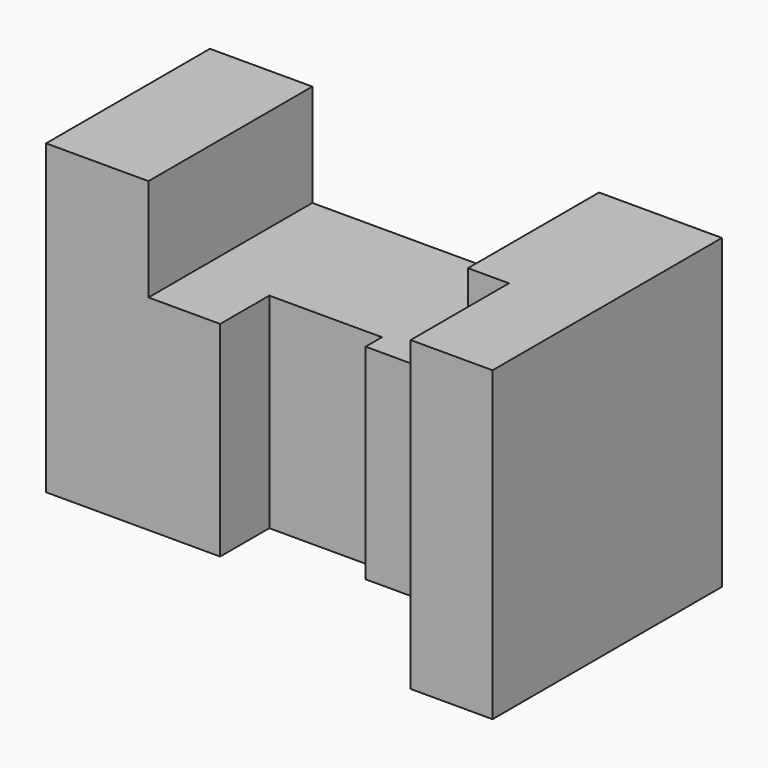
from build123d import *

# Parameters (mm, degrees)
F0_W     = 25
F0_H     = 50
F1_DEPTH = 75
F2_DEPTH = 50


with BuildPart() as f1:
    # F0 (on Top) → F1 (new body)
    with BuildSketch(Plane.XY):
        with Locations((12.5, -25)):
            Rectangle(F0_W, F0_H)
        Polygon((125, 0), (95, 0), (95, -40), (105, -40), (105, -70), (125, -70), align=None)
    extrude(amount=F1_DEPTH)

    # F0 (on Top) → F2 (join)
    with BuildSketch(Plane.XY):
        Polygon((25, 0), (25, -50), (42.5, -50), (42.5, -35), (70, -35), (70, -40), (95, -40), (95, 0), align=None)
    extrude(amount=F2_DEPTH)


solid = f1.part
